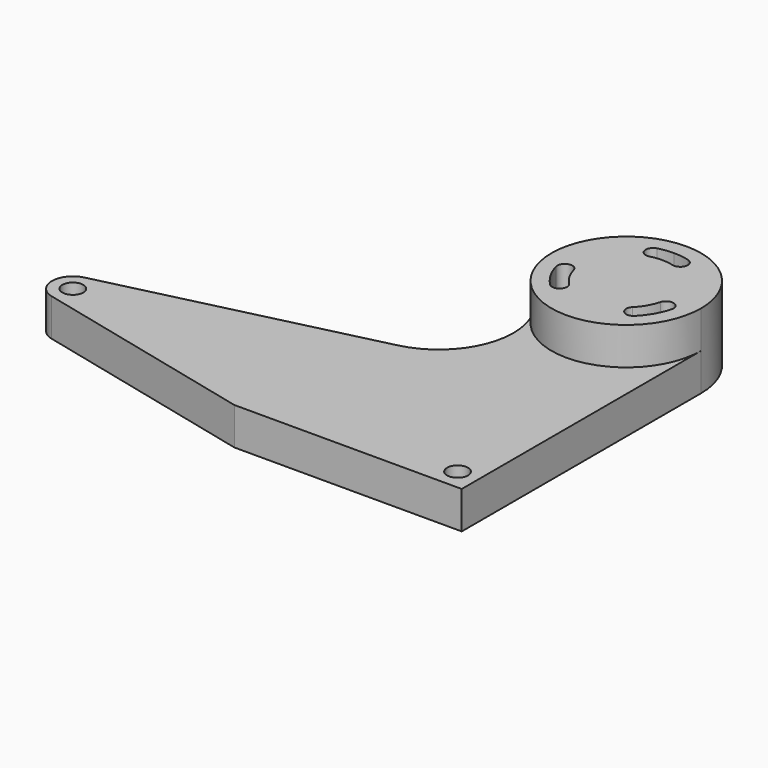
from build123d import *

# Parameters (mm, degrees)
F0_R     = 7
F1_DEPTH = 25
F2_DEPTH = 50


with BuildPart() as f1:
    # F0 (on Top) → F1 (new body)
    with BuildSketch(Plane.XY):
        with BuildLine():
            Line((-151.999996, -0.034339), (0, 0))
            Line((0, 0), (0, 200))
            ThreePointArc((0, 200), (-38.319968, 151.383369), (-94.543074, 177.286247))
            ThreePointArc((-94.543074, 177.286247), (-93.668792, 133.66164), (-127.382019, 105.961658))
            Line((-127.382019, 105.961658), (-303.277156, 63.611034))
            ThreePointArc((-303.277156, 63.611034), (-291.336288, 60.997277), (-286, 50))
            ThreePointArc((-286, 50), (-291.336288, 39.002723), (-303.277156, 36.388966))
            Line((-303.277156, 36.388966), (-151.999996, -0.034339))
        make_face()
        with Locations((-14, 14)):
            Circle(F0_R, mode=Mode.SUBTRACT)
        with BuildLine():
            ThreePointArc((-303.277156, 63.611034), (-314, 50), (-303.277156, 36.388966))
            ThreePointArc((-303.277156, 36.388966), (-291.336288, 39.002723), (-286, 50))
            ThreePointArc((-286, 50), (-291.336288, 60.997277), (-303.277156, 63.611034))
        make_face()
        with Locations((-300, 50)):
            Circle(F0_R, mode=Mode.SUBTRACT)
    extrude(amount=F1_DEPTH)

    # F0 (on Top) → F2 (join)
    with BuildSketch(Plane.XY):
        with BuildLine():
            ThreePointArc((-94.543074, 177.286247), (-38.319968, 151.383369), (0, 200))
            ThreePointArc((0, 200), (-14.644661, 235.355339), (-50, 250))
            ThreePointArc((-50, 250), (-92.63618, 226.11812), (-94.543074, 177.286247))
        make_face()
        with BuildLine():
            ThreePointArc((-84.641016, 180), (-86.955181, 184.692663), (-88.637033, 189.647238))
            ThreePointArc((-88.637033, 189.647238), (-85.101499, 195.770963), (-78.977775, 192.235429))
            ThreePointArc((-78.977775, 192.235429), (-75.980762, 185), (-71.213203, 178.786797))
            ThreePointArc((-71.213203, 178.786797), (-71.213203, 171.715729), (-78.284271, 171.715729))
            ThreePointArc((-78.284271, 171.715729), (-81.734134, 175.649543), (-84.641016, 180))
        make_face(mode=Mode.SUBTRACT)
        with BuildLine():
            ThreePointArc((-15.358984, 180), (-18.265866, 175.649543), (-21.715729, 171.715729))
            ThreePointArc((-21.715729, 171.715729), (-28.786797, 171.715729), (-28.786797, 178.786797))
            ThreePointArc((-28.786797, 178.786797), (-24.019238, 185), (-21.022225, 192.235429))
            ThreePointArc((-21.022225, 192.235429), (-14.898501, 195.770963), (-11.362967, 189.647238))
            ThreePointArc((-11.362967, 189.647238), (-13.044819, 184.692663), (-15.358984, 180))
        make_face(mode=Mode.SUBTRACT)
        with BuildLine():
            ThreePointArc((-60.352762, 238.637033), (-55.221048, 239.657794), (-50, 240))
            ThreePointArc((-50, 240), (-44.778952, 239.657794), (-39.647238, 238.637033))
            ThreePointArc((-39.647238, 238.637033), (-36.111704, 232.513309), (-42.235429, 228.977775))
            ThreePointArc((-42.235429, 228.977775), (-46.084214, 229.743346), (-50, 230))
            ThreePointArc((-50, 230), (-53.915786, 229.743346), (-57.764571, 228.977775))
            ThreePointArc((-57.764571, 228.977775), (-63.888296, 232.513309), (-60.352762, 238.637033))
        make_face(mode=Mode.SUBTRACT)
    extrude(amount=F2_DEPTH)


solid = f1.part
